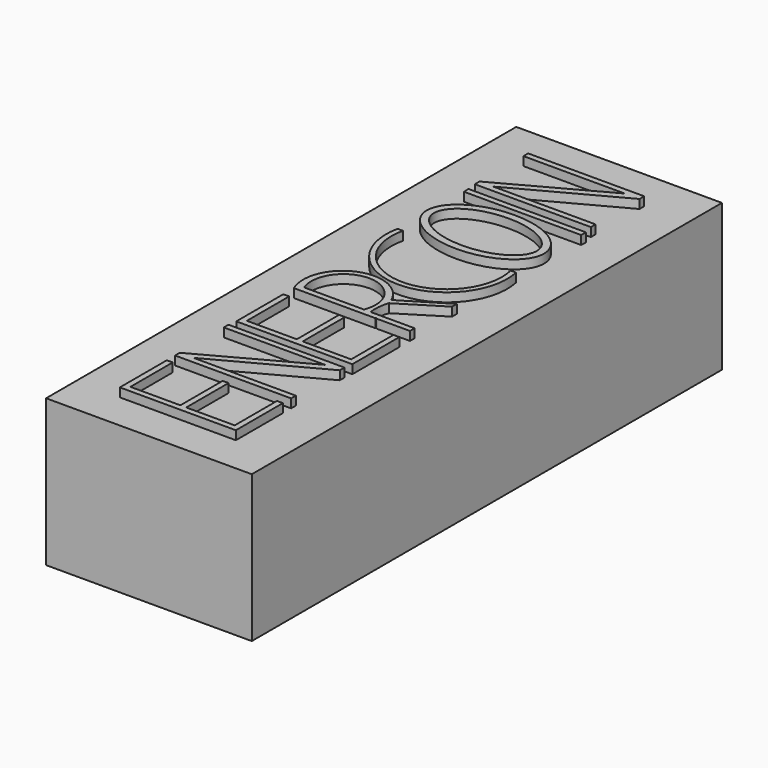
from build123d import *

# Parameters (mm, degrees)
F0_W          = 70
F0_H          = 50
F1_DEPTH      = 130
F1_DEPTH_BACK = 70
F3_DEPTH      = 3


with BuildPart() as f1:
    # F0 (on Front) → F1 (new body, two sides)
    with BuildSketch(Plane.XZ) as f1_sk:
        Rectangle(F0_W, F0_H)
    extrude(amount=F1_DEPTH)
    extrude(f1_sk.sketch, amount=-F1_DEPTH_BACK)

    # F2 (on face) → F3 (join)
    with BuildSketch(Plane.XY.offset(25)):
        Polygon((-20, -117.372043), (0, -117.372043), (19.486902, -117.372043), (19.486902, -97.372043), (17.486902, -97.372043), (17.486902, -115.372043), (1, -115.372043), (1, -97.372043), (-1, -97.372043), (-1, -115.372043), (-18, -115.372043), (-18, -97.372043), (-20, -97.372043), align=None)
        with BuildLine():
            Line((8.707276, -43.856528), (19.913864, -43.856528))
            Line((19.913864, -43.856528), (19.913864, -41.856528))
            Line((19.913864, -41.856528), (4.924431, -41.856528))
            ThreePointArc((4.924431, -41.856528), (4.807975, -38.322004), (5.569528, -34.868535))
            Line((5.569528, -34.868535), (19.913864, -25.94221))
            Line((19.913864, -25.94221), (19.913864, -23.94221))
            Line((19.913864, -23.94221), (16.171332, -26.208643))
            ThreePointArc((16.171332, -26.208643), (16.198489, -26.228568), (16.225597, -26.24856))
            ThreePointArc((16.225597, -26.24856), (16.190659, -26.233277), (16.155661, -26.218133))
            Line((16.155661, -26.218133), (4.924431, -33.019635))
            ThreePointArc((4.924431, -33.019635), (-12.74275, -26.189347), (-19.573038, -43.856528))
            Line((-19.573038, -43.856528), (8.220368, -43.856528))
            ThreePointArc((8.220368, -43.856528), (8.255555, -43.764356), (8.290131, -43.671953))
            ThreePointArc((8.290131, -43.671953), (8.497604, -43.766725), (8.707276, -43.856528))
        make_face()
        with BuildLine():
            ThreePointArc((-17.680509, -41.856528), (-7.511621, -26.91543), (2.657267, -41.856528))
            Line((2.657267, -41.856528), (-17.680509, -41.856528))
        make_face(mode=Mode.SUBTRACT)
        with BuildLine():
            Line((-17.549662, 0), (-19.378563, 0))
            ThreePointArc((-19.378563, 0), (0.781648, -24.935632), (20.941859, 0))
            Line((20.941859, 0), (19.112958, 0))
            ThreePointArc((19.112958, 0), (0.781648, -23.151189), (-17.549662, 0))
        make_face()
        with BuildLine():
            Line((-19.573038, -68.369687), (0.426962, -68.369687))
            Line((0.426962, -68.369687), (19.913864, -68.369687))
            Line((19.913864, -68.369687), (19.913864, -48.369687))
            Line((19.913864, -48.369687), (17.913864, -48.369687))
            Line((17.913864, -48.369687), (17.913864, -66.369687))
            Line((17.913864, -66.369687), (1.426962, -66.369687))
            Line((1.426962, -66.369687), (1.426962, -48.838545))
            ThreePointArc((1.426962, -48.838545), (1.335768, -48.785469), (1.244992, -48.731682))
            ThreePointArc((1.244992, -48.731682), (0.956479, -48.554269), (0.672499, -48.369687))
            Line((0.672499, -48.369687), (-0.573038, -48.369687))
            Line((-0.573038, -48.369687), (-0.573038, -66.369687))
            Line((-0.573038, -66.369687), (-17.573038, -66.369687))
            Line((-17.573038, -66.369687), (-17.573038, -48.369687))
            Line((-17.573038, -48.369687), (-19.573038, -48.369687))
            Line((-19.573038, -48.369687), (-19.573038, -68.369687))
        make_face()
        Polygon((-20, -91.874998), (-20, -93.874998), (19.486902, -93.874998), (19.486902, -91.874998), (-15.315908, -91.874998), (19.486902, -73.169678), (19.486902, -71.169678), (-20, -71.169678), (-20, -73.169678), (14.462528, -73.169678), align=None)
        with BuildLine():
            add(Edge.make_bspline(
                [(19.94747, 13.162938), (19.94747, 34.677407), (-9.973735, 23.920172), (-39.89494, 13.162938), (-9.973735, 2.405704), (19.94747, -8.351531), (19.94747, 13.162938)],
                knots=[0, 0, 0, 2.094395, 2.094395, 4.18879, 4.18879, 6.283185, 6.283185, 6.283185], degree=2, weights=[1, 0.5, 1, 0.5, 1, 0.5, 1]))
        make_face()
        with BuildLine():
            add(Edge.make_bspline(
                [(17.490629, 13.162938), (17.490629, 30.363455), (-8.745315, 21.763196), (-34.981258, 13.162938), (-8.745315, 4.562679), (17.490629, -4.037579), (17.490629, 13.162938)],
                knots=[0, 0, 0, 2.094395, 2.094395, 4.18879, 4.18879, 6.283185, 6.283185, 6.283185], degree=2, weights=[1, 0.5, 1, 0.5, 1, 0.5, 1]))
        make_face(mode=Mode.SUBTRACT)
        Polygon((-18.922255, 27.677938), (20.941859, 27.678886), (21.023758, 29.677209), (-18.976242, 29.677209), align=None)
        Polygon((-19.378563, 34.858465), (-19.378563, 32.858465), (20.108339, 32.858465), (20.108339, 34.858465), (-14.694471, 34.858465), (20.108339, 53.563785), (20.108339, 55.563785), (-19.378563, 55.563785), (-19.378563, 53.563785), (15.083965, 53.563785), align=None)
    extrude(amount=F3_DEPTH)


solid = f1.part
